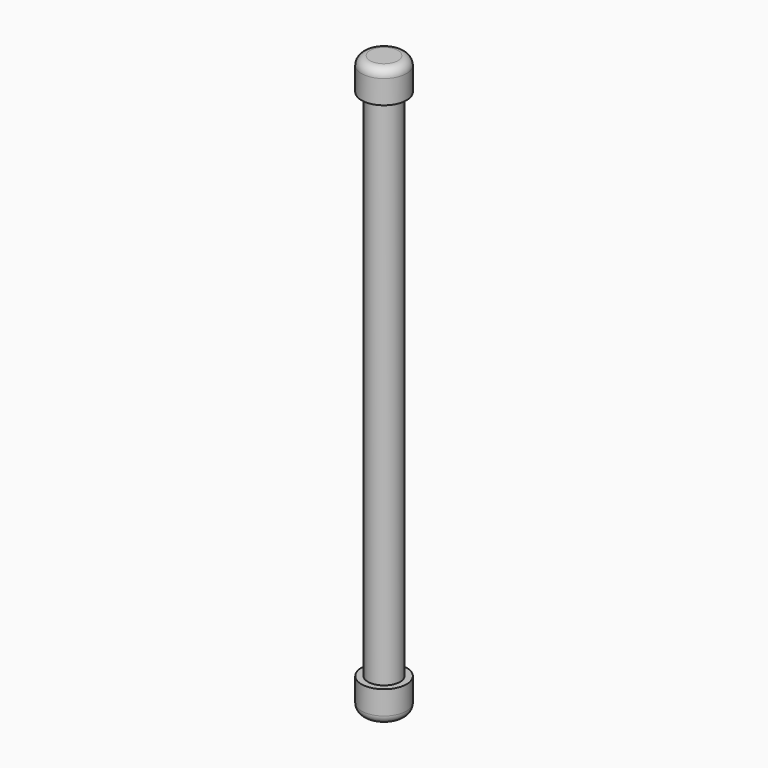
from build123d import *

# Parameters (mm, degrees)
F0_R     = 2.38125
F1_DEPTH = 85.725
F2_R     = 3.33375
F3_DEPTH = 4.7625
F4_R     = 1.27
F5_R     = 3.33375
F6_DEPTH = 4.7625
F7_R     = 1.27


with BuildPart() as f1:
    # F0 (on Top) → F1 (new body)
    with BuildSketch(Plane.XY):
        Circle(F0_R)
    extrude(amount=F1_DEPTH)

    # F2 (on face) → F3 (join)
    with BuildSketch(Plane.XY.offset(85.725)):
        Circle(F2_R)
    extrude(amount=-F3_DEPTH)

    # F4
    f4_edges = [f1.edges().sort_by_distance(p)[0] for p in [
        (-3.33375, 0, 85.725),
    ]]
    fillet(f4_edges, radius=F4_R)

    # F5 (on face) → F6 (join)
    with BuildSketch(Plane(origin=(0, 0, 0), x_dir=(1, 0, 0), z_dir=(0, 0, -1))):
        Circle(F5_R)
    extrude(amount=-F6_DEPTH)

    # F7
    f7_edges = [f1.edges().sort_by_distance(p)[0] for p in [
        (-3.33375, 0, 0),
    ]]
    fillet(f7_edges, radius=F7_R)


solid = f1.part
